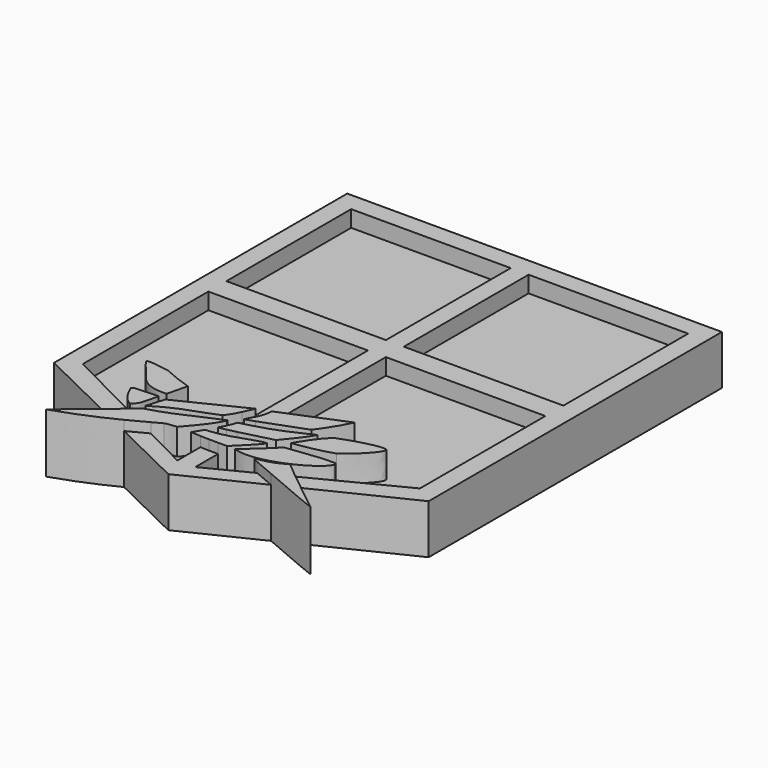
from build123d import *

# Parameters (mm, degrees)
F0_W     = 12.319
F0_H     = 12.0396
F1_DEPTH = 3.81
F2_DEPTH = 2.54
F3_DEPTH = 4.572


with BuildPart() as f1:
    # F0 (on Top) → F1 (new body)
    with BuildSketch(Plane.XY):
        with BuildLine():
            add(Edge.make_bspline(
                [(8.1169283033, 9.6667372386), (7.7310869335, 9.9844917644), (7.3500585552, 10.3050189604), (6.9759206749, 10.6293145423)],
                knots=[4.1486736792, 4.1486736792, 4.1486736792, 4.1486736792, 5.6526465741, 5.6526465741, 5.6526465741, 5.6526465741], degree=3))
            Line((8.1169283033, 9.6667372386), (15.5298291797, 13.2776712999))
            Line((15.5298291797, 13.2776712999), (15.5298291797, 41.5848446953))
            Line((15.5298291797, 41.5848446953), (1.0646498342, 41.5848446953))
            Line((1.0646498342, 41.5848446953), (1.0646498342, 12.9554838935))
            add(Edge.make_bspline(
                [(1.7564652336, 13.1265926454), (1.5415587862, 13.0704316479), (1.3119930128, 13.0135928981), (1.0646498342, 12.9554838935)],
                knots=[4.5163857109, 4.5163857109, 4.5163857109, 4.5163857109, 5.0662293891, 5.0662293891, 5.0662293891, 5.0662293891], degree=3))
            Line((1.7564652336, 13.1265926454), (1.7564652336, 13.7628387287))
            add(Edge.make_bspline(
                [(1.7564652336, 13.7628387287), (1.3629569624, 13.6206788601), (1.0978186837, 13.5313436813), (1.0713669471, 13.5402288288)],
                knots=[2.9660371258, 2.9660371258, 2.9660371258, 2.9660371258, 4.286931199, 4.286931199, 4.286931199, 4.286931199], degree=3))
            add(Edge.make_bspline(
                [(1.0713669471, 13.5402288288), (1.1603171006, 13.9552401379), (1.6143034445, 14.2256999388), (1.7457224894, 15.3957782313)],
                knots=[0, 0, 0, 0, 1.9742894881, 1.9742894881, 1.9742894881, 1.9742894881], degree=3))
            add(Edge.make_bspline(
                [(1.7457224894, 15.3957782313), (1.7493034041, 15.3972490496), (1.7528843189, 15.3987198679), (1.7564652336, 15.4001906862)],
                knots=[0, 0, 0, 0, 0.011613626, 0.011613626, 0.011613626, 0.011613626], degree=3))
            Line((1.7564652336, 15.4001906862), (1.7564652336, 26.3614689632))
            Line((1.7564652336, 26.3614689632), (14.0754652336, 26.3614689632))
            Line((14.0754652336, 26.3614689632), (14.0754652336, 14.2492791638))
            Line((14.0754652336, 14.2492791638), (6.9759206749, 10.6293145423))
        make_face()
        with Locations((7.9159652336, 34.1211672857)):
            Rectangle(F0_W, F0_H, mode=Mode.SUBTRACT)
        with BuildLine():
            add(Edge.make_bspline(
                [(0.3728344348, 11.0121595398), (0.6140600883, 11.0362693603), (0.8445226083, 11.0713390914), (1.0646498342, 11.1139504338)],
                knots=[0.2089195363, 0.2089195363, 0.2089195363, 0.2089195363, 0.7478230397, 0.7478230397, 0.7478230397, 0.7478230397], degree=3))
            Line((1.0646498342, 11.1139504338), (1.0646498342, 11.8238237711))
            add(Edge.make_bspline(
                [(0.4930809373, 11.7231532931), (0.5196312553, 11.7119038561), (0.7377386492, 11.752334562), (1.0646498342, 11.8238237711)],
                knots=[0, 0, 0, 0, 1.1073401154, 1.1073401154, 1.1073401154, 1.1073401154], degree=3))
            add(Edge.make_bspline(
                [(1.0397689184, 12.9496483132), (0.9350361652, 12.5276325271), (0.7418505265, 12.1863372624), (0.4930809373, 11.7231532931)],
                knots=[0, 0, 0, 0, 1.3428171071, 1.3428171071, 1.3428171071, 1.3428171071], degree=3))
            add(Edge.make_bspline(
                [(1.0646498342, 12.9554838935), (1.0563761261, 12.9535401288), (1.0480825264, 12.9515949428), (1.0397689184, 12.9496483132)],
                knots=[5.0662293891, 5.0662293891, 5.0662293891, 5.0662293891, 5.0846218353, 5.0846218353, 5.0846218353, 5.0846218353], degree=3))
            Line((1.0646498342, 12.9554838935), (1.0646498342, 41.5848446953))
            Line((1.0646498342, 41.5848446953), (-13.4005295113, 41.5848446953))
            Line((-13.4005295113, 41.5848446953), (-13.4005295113, 13.2776712999))
            Line((-13.4005295113, 13.2776712999), (-5.9566833199, 9.6516633162))
            add(Edge.make_bspline(
                [(-4.8405045296, 10.626195831), (-5.2003272722, 10.297998217), (-5.5743588224, 9.9738449613), (-5.9566833199, 9.6516633162)],
                knots=[0.2811679203, 0.2811679203, 0.2811679203, 0.2811679203, 1.7864987827, 1.7864987827, 1.7864987827, 1.7864987827], degree=3))
            Line((-4.8405045296, 10.626195831), (-5.4621621395, 10.9431708899))
            add(Edge.make_bspline(
                [(-5.4621621395, 10.9431708899), (-5.4938838732, 10.9084597866), (-5.5291695124, 10.8698442291), (-5.5685825646, 10.8262160793)],
                knots=[1.830827329, 1.830827329, 1.830827329, 1.830827329, 1.974727081, 1.974727081, 1.974727081, 1.974727081], degree=3))
            add(Edge.make_bspline(
                [(-5.5685825646, 10.8262160793), (-5.7882104325, 10.9416841946), (-5.9745791092, 11.1050595245), (-6.1314349809, 11.2844243306)],
                knots=[0, 0, 0, 0, 0.598960634, 0.598960634, 0.598960634, 0.598960634], degree=3))
            Line((-6.1314349809, 11.2844243306), (-11.9461655652, 14.2492791638))
            Line((-11.9461655652, 14.2492791638), (-11.9461655652, 26.3614689632))
            Line((-11.9461655652, 26.3614689632), (0.3728344348, 26.3614689632))
            Line((0.3728344348, 26.3614689632), (0.3728344348, 14.8609511311))
            add(Edge.make_bspline(
                [(0.3728344348, 14.8609511311), (0.4987414705, 14.9216025103), (0.6246650573, 14.9821541058), (0.7506007084, 15.0426004204)],
                knots=[5.1560141217, 5.1560141217, 5.1560141217, 5.1560141217, 5.575348818, 5.575348818, 5.575348818, 5.575348818], degree=3))
            add(Edge.make_bspline(
                [(0.7506007084, 15.0426004204), (0.6210977074, 14.7695425996), (0.5060288383, 14.4858343505), (0.3728344348, 14.2006814171)],
                knots=[0, 0, 0, 0, 0.9600736135, 0.9600736135, 0.9600736135, 0.9600736135], degree=3))
            Line((0.3728344348, 14.2006814171), (0.3728344348, 12.8185488284))
            Line((0.3728344348, 12.8185488284), (0.3728344348, 12.7684660256))
            Line((0.3728344348, 12.7684660256), (0.3728344348, 11.0121595398))
        make_face()
        with Locations((-5.7866655652, 34.1211672857)):
            Rectangle(F0_W, F0_H, mode=Mode.SUBTRACT)
        with BuildLine():
            Line((1.0646498342, 11.8238237711), (1.0646498342, 11.1139504338))
            add(Edge.make_bspline(
                [(1.0646498342, 11.1139504338), (1.307658721, 11.160991116), (1.5380719853, 11.2172227596), (1.7564652336, 11.2780464508)],
                knots=[0.7478230397, 0.7478230397, 0.7478230397, 0.7478230397, 1.3427441811, 1.3427441811, 1.3427441811, 1.3427441811], degree=3))
            Line((1.7564652336, 11.2780464508), (1.7564652336, 11.9824799775))
            add(Edge.make_bspline(
                [(1.0646498342, 11.8238237711), (1.2617495611, 11.8669257028), (1.4984002011, 11.9213176103), (1.7564652336, 11.9824799775)],
                knots=[1.1073401154, 1.1073401154, 1.1073401154, 1.1073401154, 1.7749723174, 1.7749723174, 1.7749723174, 1.7749723174], degree=3))
        make_face()
    extrude(amount=F1_DEPTH)



with BuildPart() as f1b:
    # F0 (on Top) → F1, piece 2 (new body)
    with BuildSketch(Plane.XY):
        with BuildLine():
            Line((-4.537572573, 8.9603934047), (1.0646498342, 6.2314677052))
            Line((1.0646498342, 6.2314677052), (1.0646498342, 10.1707370047))
            add(Edge.make_bspline(
                [(1.0646498342, 10.1707370047), (0.8358888752, 10.1743188217), (0.6056667383, 10.1805000668), (0.3728344348, 10.1902409627)],
                knots=[1.4016677408, 1.4016677408, 1.4016677408, 1.4016677408, 2.0930423017, 2.0930423017, 2.0930423017, 2.0930423017], degree=3))
            Line((0.3728344348, 10.1902409627), (0.3728344348, 7.9679826943))
            Line((0.3728344348, 7.9679826943), (-3.0811743862, 9.7291364741))
            add(Edge.make_bspline(
                [(-4.537572573, 8.9603934047), (-4.0146606579, 9.2250629054), (-3.5340269031, 9.4834843848), (-3.0811743862, 9.7291364741)],
                knots=[4.4223685997, 4.4223685997, 4.4223685997, 4.4223685997, 6.3210960992, 6.3210960992, 6.3210960992, 6.3210960992], degree=3))
        make_face()
        with BuildLine():
            Line((1.0646498342, 10.1707370047), (1.0646498342, 6.2314677052))
            Line((1.0646498342, 6.2314677052), (6.7696760466, 9.0104706643))
            add(Edge.make_bspline(
                [(5.1516435457, 9.6991395694), (5.6418565257, 9.4918764499), (6.1970144602, 9.2551350292), (6.7696760466, 9.0104706643)],
                knots=[0.2711685977, 0.2711685977, 0.2711685977, 0.2711685977, 1.7880814229, 1.7880814229, 1.7880814229, 1.7880814229], degree=3))
            Line((5.1516435457, 9.6991395694), (1.7564652336, 7.9679826943))
            Line((1.7564652336, 7.9679826943), (1.7564652336, 10.1668557981))
            add(Edge.make_bspline(
                [(1.7564652336, 10.1668557981), (1.5265631841, 10.1661479339), (1.2963560314, 10.1671090728), (1.0646498342, 10.1707370047)],
                knots=[0.7013919112, 0.7013919112, 0.7013919112, 0.7013919112, 1.4016677408, 1.4016677408, 1.4016677408, 1.4016677408], degree=3))
        make_face()
    extrude(amount=F1_DEPTH)


with BuildPart() as f1_1:
    add(f1.part)

    add(f1b.part)  # F2 merges F1b
    # F0 (on Top) → F2 (join)
    with BuildSketch(Plane.XY):
        with Locations((-5.7866655652, 34.1211672857)):
            Rectangle(F0_W, F0_H)
        with BuildLine():
            Line((-5.4621621395, 10.9431708899), (-4.8405045296, 10.626195831))
            add(Edge.make_bspline(
                [(-4.640405532, 10.8105363324), (-4.7065837909, 10.7489393974), (-4.7732963067, 10.6874970658), (-4.8405045296, 10.626195831)],
                knots=[0, 0, 0, 0, 0.2811679203, 0.2811679203, 0.2811679203, 0.2811679203], degree=3))
            add(Edge.make_bspline(
                [(0.3728344348, 12.8185488284), (-1.2982455541, 12.1492113297), (-2.5186894927, 11.3842468709), (-4.640405532, 10.8105363324)],
                knots=[0, 0, 0, 0, 5.400434163, 5.400434163, 5.400434163, 5.400434163], degree=3))
            Line((0.3728344348, 12.8185488284), (0.3728344348, 14.2006814171))
            add(Edge.make_bspline(
                [(0.3728344348, 14.2006814171), (0.2050268988, 13.8414259986), (0.0084492353, 13.4798774749), (-0.2820098598, 13.1344450638)],
                knots=[0.9600736135, 0.9600736135, 0.9600736135, 0.9600736135, 2.1696408575, 2.1696408575, 2.1696408575, 2.1696408575], degree=3))
            add(Edge.make_bspline(
                [(-0.2820098598, 13.1344450638), (-1.7461491322, 12.4868747468), (-2.8670993634, 12.3671321198), (-4.6744276769, 11.1917341128)],
                knots=[0, 0, 0, 0, 4.8028595773, 4.8028595773, 4.8028595773, 4.8028595773], degree=3))
            add(Edge.make_bspline(
                [(-4.6744276769, 11.1917341128), (-4.5585688204, 11.653997004), (-4.3997686231, 12.1223595133), (-4.2556639946, 12.588659067)],
                knots=[0, 0, 0, 0, 1.4583423293, 1.4583423293, 1.4583423293, 1.4583423293], degree=3))
            add(Edge.make_bspline(
                [(-4.2556639946, 12.588659067), (-2.7208938762, 13.3543629341), (-1.1752808532, 14.115199896), (0.3728344348, 14.8609511311)],
                knots=[0, 0, 0, 0, 5.1560141217, 5.1560141217, 5.1560141217, 5.1560141217], degree=3))
            Line((0.3728344348, 14.8609511311), (0.3728344348, 26.3614689632))
            Line((0.3728344348, 26.3614689632), (-11.9461655652, 26.3614689632))
            Line((-11.9461655652, 26.3614689632), (-11.9461655652, 14.2492791638))
            Line((-11.9461655652, 14.2492791638), (-6.1314349809, 11.2844243306))
            add(Edge.make_bspline(
                [(-6.1314349809, 11.2844243306), (-6.4952009614, 11.7003910001), (-6.7002391075, 12.2023533893), (-6.7932773381, 12.3922079802)],
                knots=[0.598960634, 0.598960634, 0.598960634, 0.598960634, 1.9880160769, 1.9880160769, 1.9880160769, 1.9880160769], degree=3))
            add(Edge.make_bspline(
                [(-6.7932773381, 12.3922079802), (-6.8484530784, 12.5224431977), (-6.699541118, 12.6090832055), (-6.6055506468, 12.5974332914)],
                knots=[0, 0, 0, 0, 0.2781343902, 0.2781343902, 0.2781343902, 0.2781343902], degree=3))
            add(Edge.make_bspline(
                [(-6.6055506468, 12.5974332914), (-5.3420835175, 12.6334168017), (-4.9102474004, 12.7053894103), (-4.8215379938, 12.6541852951)],
                knots=[0, 0, 0, 0, 1.784915106, 1.784915106, 1.784915106, 1.784915106], degree=3))
            add(Edge.make_bspline(
                [(-4.8215379938, 12.6541852951), (-5.2318753773, 11.194399065), (-5.0585685524, 11.3847980338), (-5.4621621395, 10.9431708899)],
                knots=[0, 0, 0, 0, 1.830827329, 1.830827329, 1.830827329, 1.830827329], degree=3))
        make_face()
        with BuildLine():
            add(Edge.make_bspline(
                [(-8.2688052207, 15.8066917211), (-8.2715703174, 15.6181789935), (-7.3390716376, 14.6207179253), (-6.8825283088, 14.0183903277)],
                knots=[0, 0, 0, 0, 2.2626943121, 2.2626943121, 2.2626943121, 2.2626943121], degree=3))
            add(Edge.make_bspline(
                [(-6.5143578686, 15.6538486481), (-7.3579349555, 15.8212762326), (-8.1564355642, 15.892110765), (-8.2688052207, 15.8066917211)],
                knots=[0, 0, 0, 0, 1.7610924213, 1.7610924213, 1.7610924213, 1.7610924213], degree=3))
            add(Edge.make_bspline(
                [(-4.2778113857, 14.7888604552), (-5.0692479126, 15.0221036747), (-5.8130128309, 15.3505196795), (-6.5143578686, 15.6538486481)],
                knots=[0, 0, 0, 0, 2.3979876447, 2.3979876447, 2.3979876447, 2.3979876447], degree=3))
            add(Edge.make_bspline(
                [(-4.6544563957, 13.2268099114), (-4.528908059, 13.747493426), (-4.4033597223, 14.2681769406), (-4.2778113857, 14.7888604552)],
                knots=[0, 0, 0, 0, 1.6068177758, 1.6068177758, 1.6068177758, 1.6068177758], degree=3))
            add(Edge.make_bspline(
                [(-6.8825283088, 14.0183903277), (-6.7798104137, 13.9257926494), (-6.274308078, 13.095093891), (-4.6544563957, 13.2268099114)],
                knots=[0, 0, 0, 0, 2.3645092526, 2.3645092526, 2.3645092526, 2.3645092526], degree=3))
        make_face(mode=Mode.SUBTRACT)
        with BuildLine():
            add(Edge.make_bspline(
                [(2.4475520477, 10.1730031893), (2.21669608, 10.1699481103), (1.986733695, 10.1675647905), (1.7564652336, 10.1668557981)],
                knots=[0, 0, 0, 0, 0.7013919112, 0.7013919112, 0.7013919112, 0.7013919112], degree=3))
            Line((1.7564652336, 10.1668557981), (1.7564652336, 7.9679826943))
            Line((1.7564652336, 7.9679826943), (5.1516435457, 9.6991395694))
            add(Edge.make_bspline(
                [(4.8952442594, 9.8073435947), (4.9784546062, 9.7722996979), (5.0640113732, 9.7361906435), (5.1516435457, 9.6991395694)],
                knots=[0, 0, 0, 0, 0.2711685977, 0.2711685977, 0.2711685977, 0.2711685977], degree=3))
            add(Edge.make_bspline(
                [(4.7524725087, 9.9347587675), (4.7750165686, 9.874840267), (4.8336824402, 9.8363403231), (4.8952442594, 9.8073435947)],
                knots=[0, 0, 0, 0, 0.1913593453, 0.1913593453, 0.1913593453, 0.1913593453], degree=3))
            add(Edge.make_bspline(
                [(6.9230310619, 10.6752235442), (6.2981424853, 10.3564653546), (5.9726307495, 10.117750173), (4.7524725087, 9.9347587675)],
                knots=[0, 0, 0, 0, 2.2933845117, 2.2933845117, 2.2933845117, 2.2933845117], degree=3))
            add(Edge.make_bspline(
                [(6.9759206749, 10.6293145423), (6.9582754047, 10.6446091261), (6.9406454611, 10.659912092), (6.9230310619, 10.6752235442)],
                knots=[5.6526465741, 5.6526465741, 5.6526465741, 5.6526465741, 5.7235776652, 5.7235776652, 5.7235776652, 5.7235776652], degree=3))
            Line((6.9759206749, 10.6293145423), (14.0754652336, 14.2492791638))
            Line((14.0754652336, 14.2492791638), (14.0754652336, 26.3614689632))
            Line((14.0754652336, 26.3614689632), (1.7564652336, 26.3614689632))
            Line((1.7564652336, 26.3614689632), (1.7564652336, 15.4001906862))
            add(Edge.make_bspline(
                [(1.7564652336, 15.4001906862), (3.3462487991, 16.0531754527), (4.9360323647, 16.7061602192), (6.5258159302, 17.3591449857)],
                knots=[0.011613626, 0.011613626, 0.011613626, 0.011613626, 5.1676012148, 5.1676012148, 5.1676012148, 5.1676012148], degree=3))
            add(Edge.make_bspline(
                [(6.5258159302, 17.3591449857), (6.173139438, 16.5417306125), (5.6213485077, 15.7620254904), (5.1000835374, 15.0055689737)],
                knots=[0, 0, 0, 0, 2.7517327087, 2.7517327087, 2.7517327087, 2.7517327087], degree=3))
            add(Edge.make_bspline(
                [(5.1000835374, 15.0055689737), (4.170955573, 14.6676230111), (2.6400789655, 14.0820554293), (1.7564652336, 13.7628387287)],
                knots=[0, 0, 0, 0, 2.9660371258, 2.9660371258, 2.9660371258, 2.9660371258], degree=3))
            Line((1.7564652336, 13.7628387287), (1.7564652336, 13.1265926454))
            add(Edge.make_bspline(
                [(5.8130039833, 14.7016774863), (4.2978762065, 14.0034721299), (3.521694964, 13.5878959877), (1.7564652336, 13.1265926454)],
                knots=[0, 0, 0, 0, 4.5163857109, 4.5163857109, 4.5163857109, 4.5163857109], degree=3))
            add(Edge.make_bspline(
                [(4.2615598068, 12.6195801422), (4.8098652624, 13.2833756506), (5.3336666897, 13.8791501522), (5.8130039833, 14.7016774863)],
                knots=[0, 0, 0, 0, 2.5965570249, 2.5965570249, 2.5965570249, 2.5965570249], degree=3))
            add(Edge.make_bspline(
                [(1.7564652336, 11.9824799775), (2.5676758346, 12.1747398905), (3.5904859521, 12.4338999506), (4.2615598068, 12.6195801422)],
                knots=[1.7749723174, 1.7749723174, 1.7749723174, 1.7749723174, 3.8736306078, 3.8736306078, 3.8736306078, 3.8736306078], degree=3))
            Line((1.7564652336, 11.9824799775), (1.7564652336, 11.2780464508))
            add(Edge.make_bspline(
                [(1.7564652336, 11.2780464508), (2.7732785062, 11.5612344016), (3.5295310008, 11.943965273), (4.0833167732, 11.9620859623)],
                knots=[1.3427441811, 1.3427441811, 1.3427441811, 1.3427441811, 4.1126270296, 4.1126270296, 4.1126270296, 4.1126270296], degree=3))
            add(Edge.make_bspline(
                [(4.0833167732, 11.9620859623), (4.1368496604, 11.8192695081), (3.0505978502, 10.7668982819), (2.4475520477, 10.1730031893)],
                knots=[0, 0, 0, 0, 2.4241582881, 2.4241582881, 2.4241582881, 2.4241582881], degree=3))
        make_face()
        with BuildLine():
            add(Edge.make_bspline(
                [(5.2580512129, 12.1715525165), (4.5750867575, 11.4770280197), (3.8347556204, 10.812910027), (3.0810336996, 10.1520127944)],
                knots=[0, 0, 0, 0, 2.9695026422, 2.9695026422, 2.9695026422, 2.9695026422], degree=3))
            add(Edge.make_bspline(
                [(8.9735882357, 12.5061022118), (7.7045755461, 12.5705245882), (6.4924275503, 12.27212511), (5.2580512129, 12.1715525165)],
                knots=[0, 0, 0, 0, 3.7305681694, 3.7305681694, 3.7305681694, 3.7305681694], degree=3))
            add(Edge.make_bspline(
                [(9.0082781389, 12.2779496014), (9.0278545395, 12.3873557895), (9.0301306918, 12.4237826094), (8.9735882357, 12.5061022118)],
                knots=[0, 0, 0, 0, 0.2307747885, 0.2307747885, 0.2307747885, 0.2307747885], degree=3))
            add(Edge.make_bspline(
                [(3.0810336996, 10.1520127944), (5.0206673332, 9.4773862511), (8.621907793, 11.3026723266), (9.0082781389, 12.2779496014)],
                knots=[0, 0, 0, 0, 6.2969702199, 6.2969702199, 6.2969702199, 6.2969702199], degree=3))
        make_face(mode=Mode.SUBTRACT)
        with BuildLine():
            add(Edge.make_bspline(
                [(5.2117924206, 12.8667727113), (6.1420290731, 13.0153475329), (7.2643333115, 13.1880100816), (8.2238372415, 13.5305784643)],
                knots=[0, 0, 0, 0, 3.0843236019, 3.0843236019, 3.0843236019, 3.0843236019], degree=3))
            add(Edge.make_bspline(
                [(5.2117924206, 12.8667727113), (5.6534204632, 13.6239398271), (6.1309374869, 14.3489101902), (6.7917513661, 15.014545992)],
                knots=[0, 0, 0, 0, 2.6663083721, 2.6663083721, 2.6663083721, 2.6663083721], degree=3))
            add(Edge.make_bspline(
                [(6.7917513661, 15.014545992), (8.3780921996, 15.6300216913), (9.7825620323, 15.9676801413), (10.2291237563, 15.8130526543)],
                knots=[0, 0, 0, 0, 3.5289009392, 3.5289009392, 3.5289009392, 3.5289009392], degree=3))
            add(Edge.make_bspline(
                [(8.2238372415, 13.5305784643), (8.4473183379, 13.6159388348), (10.5278836563, 15.3886405751), (10.2291237563, 15.8130526543)],
                knots=[0, 0, 0, 0, 3.0382334397, 3.0382334397, 3.0382334397, 3.0382334397], degree=3))
        make_face(mode=Mode.SUBTRACT)
        with Locations((7.9159652336, 34.1211672857)):
            Rectangle(F0_W, F0_H)
        with BuildLine():
            Line((0.3728344348, 7.9679826943), (0.3728344348, 10.1902409627))
            add(Edge.make_bspline(
                [(0.3728344348, 10.1902409627), (0.1265041454, 10.2005465674), (-0.1227477214, 10.2148365135), (-0.3762817942, 10.2342478931)],
                knots=[2.0930423017, 2.0930423017, 2.0930423017, 2.0930423017, 2.8244979164, 2.8244979164, 2.8244979164, 2.8244979164], degree=3))
            add(Edge.make_bspline(
                [(-0.3762817942, 10.2342478931), (-0.2217195167, 10.4859185716), (-0.0671572391, 10.73758925), (0.0874050384, 10.9892599285)],
                knots=[0, 0, 0, 0, 0.8860297129, 0.8860297129, 0.8860297129, 0.8860297129], degree=3))
            add(Edge.make_bspline(
                [(0.0874050384, 10.9892599285), (0.1841824028, 10.9951131675), (0.2793172256, 11.0028127598), (0.3728344348, 11.0121595398)],
                knots=[0, 0, 0, 0, 0.2089195363, 0.2089195363, 0.2089195363, 0.2089195363], degree=3))
            Line((0.3728344348, 11.0121595398), (0.3728344348, 12.7684660256))
            add(Edge.make_bspline(
                [(0.3728344348, 12.7684660256), (0, 11.9081633165), (-0.8753027068, 10.9360180795), (-1.4679196756, 10.2480528876)],
                knots=[0, 0, 0, 0, 3.1210347773, 3.1210347773, 3.1210347773, 3.1210347773], degree=3))
            add(Edge.make_bspline(
                [(-2.3762476631, 10.1113012061), (-2.0986832678, 10.2179581299), (-1.7706956714, 10.2024689938), (-1.4679196756, 10.2480528876)],
                knots=[0, 0, 0, 0, 0.9185645079, 0.9185645079, 0.9185645079, 0.9185645079], degree=3))
            add(Edge.make_bspline(
                [(-3.0811743862, 9.7291364741), (-2.8389924153, 9.8605092828), (-2.6047559519, 9.9882300122), (-2.3762476631, 10.1113012061)],
                knots=[6.3210960992, 6.3210960992, 6.3210960992, 6.3210960992, 7.3365206596, 7.3365206596, 7.3365206596, 7.3365206596], degree=3))
            Line((-3.0811743862, 9.7291364741), (0.3728344348, 7.9679826943))
        make_face()
    extrude(amount=F2_DEPTH)

    # F0 (on Top) → F3 (join)
    with BuildSketch(Plane.XY):
        with BuildLine():
            Line((-4.8405045296, 10.626195831), (-3.0811743862, 9.7291364741))
            add(Edge.make_bspline(
                [(-3.0811743862, 9.7291364741), (-2.8389924153, 9.8605092828), (-2.6047559519, 9.9882300122), (-2.3762476631, 10.1113012061)],
                knots=[6.3210960992, 6.3210960992, 6.3210960992, 6.3210960992, 7.3365206596, 7.3365206596, 7.3365206596, 7.3365206596], degree=3))
            add(Edge.make_bspline(
                [(-2.3762476631, 10.1113012061), (-2.0986832678, 10.2179581299), (-1.7706956714, 10.2024689938), (-1.4679196756, 10.2480528876)],
                knots=[0, 0, 0, 0, 0.9185645079, 0.9185645079, 0.9185645079, 0.9185645079], degree=3))
            add(Edge.make_bspline(
                [(0.3728344348, 12.7684660256), (0, 11.9081633165), (-0.8753027068, 10.9360180795), (-1.4679196756, 10.2480528876)],
                knots=[0, 0, 0, 0, 3.1210347773, 3.1210347773, 3.1210347773, 3.1210347773], degree=3))
            Line((0.3728344348, 12.7684660256), (0.3728344348, 12.8185488284))
            add(Edge.make_bspline(
                [(0.3728344348, 12.8185488284), (-1.2982455541, 12.1492113297), (-2.5186894927, 11.3842468709), (-4.640405532, 10.8105363324)],
                knots=[0, 0, 0, 0, 5.400434163, 5.400434163, 5.400434163, 5.400434163], degree=3))
            add(Edge.make_bspline(
                [(-4.640405532, 10.8105363324), (-4.7065837909, 10.7489393974), (-4.7732963067, 10.6874970658), (-4.8405045296, 10.626195831)],
                knots=[0, 0, 0, 0, 0.2811679203, 0.2811679203, 0.2811679203, 0.2811679203], degree=3))
        make_face()
        with BuildLine():
            Line((-5.9566833199, 9.6516633162), (-4.537572573, 8.9603934047))
            add(Edge.make_bspline(
                [(-4.537572573, 8.9603934047), (-4.0146606579, 9.2250629054), (-3.5340269031, 9.4834843848), (-3.0811743862, 9.7291364741)],
                knots=[4.4223685997, 4.4223685997, 4.4223685997, 4.4223685997, 6.3210960992, 6.3210960992, 6.3210960992, 6.3210960992], degree=3))
            Line((-3.0811743862, 9.7291364741), (-4.8405045296, 10.626195831))
            add(Edge.make_bspline(
                [(-4.8405045296, 10.626195831), (-5.2003272722, 10.297998217), (-5.5743588224, 9.9738449613), (-5.9566833199, 9.6516633162)],
                knots=[0.2811679203, 0.2811679203, 0.2811679203, 0.2811679203, 1.7864987827, 1.7864987827, 1.7864987827, 1.7864987827], degree=3))
        make_face()
        with BuildLine():
            add(Edge.make_bspline(
                [(-9.0625723824, 7.091765292), (-7.2027752193, 7.6936037888), (-5.7554983862, 8.3439457632), (-4.537572573, 8.9603934047)],
                knots=[0, 0, 0, 0, 4.4223685997, 4.4223685997, 4.4223685997, 4.4223685997], degree=3))
            Line((-4.537572573, 8.9603934047), (-5.9566833199, 9.6516633162))
            add(Edge.make_bspline(
                [(-5.9566833199, 9.6516633162), (-6.9704360488, 8.7973824002), (-8.0424941706, 7.9569633272), (-9.0625723824, 7.091765292)],
                knots=[1.7864987827, 1.7864987827, 1.7864987827, 1.7864987827, 5.7779596489, 5.7779596489, 5.7779596489, 5.7779596489], degree=3))
        make_face()
        with BuildLine():
            add(Edge.make_bspline(
                [(5.1516435457, 9.6991395694), (5.6418565257, 9.4918764499), (6.1970144602, 9.2551350292), (6.7696760466, 9.0104706643)],
                knots=[0.2711685977, 0.2711685977, 0.2711685977, 0.2711685977, 1.7880814229, 1.7880814229, 1.7880814229, 1.7880814229], degree=3))
            Line((6.7696760466, 9.0104706643), (8.1169283033, 9.6667372386))
            add(Edge.make_bspline(
                [(8.1169283033, 9.6667372386), (7.7310869335, 9.9844917644), (7.3500585552, 10.3050189604), (6.9759206749, 10.6293145423)],
                knots=[4.1486736792, 4.1486736792, 4.1486736792, 4.1486736792, 5.6526465741, 5.6526465741, 5.6526465741, 5.6526465741], degree=3))
            Line((6.9759206749, 10.6293145423), (5.1516435457, 9.6991395694))
        make_face()
        with BuildLine():
            Line((8.1169283033, 9.6667372386), (6.7696760466, 9.0104706643))
            add(Edge.make_bspline(
                [(6.7696760466, 9.0104706643), (8.7491982997, 8.1647380949), (10.9378683716, 7.2243357664), (11.3761937246, 7.0795756765)],
                knots=[1.7880814229, 1.7880814229, 1.7880814229, 1.7880814229, 7.0316017938, 7.0316017938, 7.0316017938, 7.0316017938], degree=3))
            add(Edge.make_bspline(
                [(11.3761937246, 7.0795756765), (10.2822198745, 7.9347983205), (9.1812626013, 8.7902188902), (8.1169283033, 9.6667372386)],
                knots=[0, 0, 0, 0, 4.1486736792, 4.1486736792, 4.1486736792, 4.1486736792], degree=3))
        make_face()
        with BuildLine():
            add(Edge.make_bspline(
                [(4.8952442594, 9.8073435947), (4.9784546062, 9.7722996979), (5.0640113732, 9.7361906435), (5.1516435457, 9.6991395694)],
                knots=[0, 0, 0, 0, 0.2711685977, 0.2711685977, 0.2711685977, 0.2711685977], degree=3))
            Line((5.1516435457, 9.6991395694), (6.9759206749, 10.6293145423))
            add(Edge.make_bspline(
                [(6.9759206749, 10.6293145423), (6.9582754047, 10.6446091261), (6.9406454611, 10.659912092), (6.9230310619, 10.6752235442)],
                knots=[5.6526465741, 5.6526465741, 5.6526465741, 5.6526465741, 5.7235776652, 5.7235776652, 5.7235776652, 5.7235776652], degree=3))
            add(Edge.make_bspline(
                [(6.9230310619, 10.6752235442), (6.2981424853, 10.3564653546), (5.9726307495, 10.117750173), (4.7524725087, 9.9347587675)],
                knots=[0, 0, 0, 0, 2.2933845117, 2.2933845117, 2.2933845117, 2.2933845117], degree=3))
            add(Edge.make_bspline(
                [(4.7524725087, 9.9347587675), (4.7750165686, 9.874840267), (4.8336824402, 9.8363403231), (4.8952442594, 9.8073435947)],
                knots=[0, 0, 0, 0, 0.1913593453, 0.1913593453, 0.1913593453, 0.1913593453], degree=3))
        make_face()
        with BuildLine():
            Line((1.7564652336, 11.2780464508), (1.7564652336, 10.1668557981))
            add(Edge.make_bspline(
                [(2.4475520477, 10.1730031893), (2.21669608, 10.1699481103), (1.986733695, 10.1675647905), (1.7564652336, 10.1668557981)],
                knots=[0, 0, 0, 0, 0.7013919112, 0.7013919112, 0.7013919112, 0.7013919112], degree=3))
            add(Edge.make_bspline(
                [(4.0833167732, 11.9620859623), (4.1368496604, 11.8192695081), (3.0505978502, 10.7668982819), (2.4475520477, 10.1730031893)],
                knots=[0, 0, 0, 0, 2.4241582881, 2.4241582881, 2.4241582881, 2.4241582881], degree=3))
            add(Edge.make_bspline(
                [(1.7564652336, 11.2780464508), (2.7732785062, 11.5612344016), (3.5295310008, 11.943965273), (4.0833167732, 11.9620859623)],
                knots=[1.3427441811, 1.3427441811, 1.3427441811, 1.3427441811, 4.1126270296, 4.1126270296, 4.1126270296, 4.1126270296], degree=3))
        make_face()
        with BuildLine():
            Line((1.0646498342, 11.1139504338), (1.0646498342, 10.1707370047))
            add(Edge.make_bspline(
                [(1.7564652336, 10.1668557981), (1.5265631841, 10.1661479339), (1.2963560314, 10.1671090728), (1.0646498342, 10.1707370047)],
                knots=[0.7013919112, 0.7013919112, 0.7013919112, 0.7013919112, 1.4016677408, 1.4016677408, 1.4016677408, 1.4016677408], degree=3))
            Line((1.7564652336, 10.1668557981), (1.7564652336, 11.2780464508))
            add(Edge.make_bspline(
                [(1.0646498342, 11.1139504338), (1.307658721, 11.160991116), (1.5380719853, 11.2172227596), (1.7564652336, 11.2780464508)],
                knots=[0.7478230397, 0.7478230397, 0.7478230397, 0.7478230397, 1.3427441811, 1.3427441811, 1.3427441811, 1.3427441811], degree=3))
        make_face()
        with BuildLine():
            add(Edge.make_bspline(
                [(1.0646498342, 10.1707370047), (0.8358888752, 10.1743188217), (0.6056667383, 10.1805000668), (0.3728344348, 10.1902409627)],
                knots=[1.4016677408, 1.4016677408, 1.4016677408, 1.4016677408, 2.0930423017, 2.0930423017, 2.0930423017, 2.0930423017], degree=3))
            Line((1.0646498342, 10.1707370047), (1.0646498342, 11.1139504338))
            add(Edge.make_bspline(
                [(0.3728344348, 11.0121595398), (0.6140600883, 11.0362693603), (0.8445226083, 11.0713390914), (1.0646498342, 11.1139504338)],
                knots=[0.2089195363, 0.2089195363, 0.2089195363, 0.2089195363, 0.7478230397, 0.7478230397, 0.7478230397, 0.7478230397], degree=3))
            Line((0.3728344348, 11.0121595398), (0.3728344348, 10.1902409627))
        make_face()
        with BuildLine():
            add(Edge.make_bspline(
                [(0.3728344348, 10.1902409627), (0.1265041454, 10.2005465674), (-0.1227477214, 10.2148365135), (-0.3762817942, 10.2342478931)],
                knots=[2.0930423017, 2.0930423017, 2.0930423017, 2.0930423017, 2.8244979164, 2.8244979164, 2.8244979164, 2.8244979164], degree=3))
            Line((0.3728344348, 10.1902409627), (0.3728344348, 11.0121595398))
            add(Edge.make_bspline(
                [(0.0874050384, 10.9892599285), (0.1841824028, 10.9951131675), (0.2793172256, 11.0028127598), (0.3728344348, 11.0121595398)],
                knots=[0, 0, 0, 0, 0.2089195363, 0.2089195363, 0.2089195363, 0.2089195363], degree=3))
            add(Edge.make_bspline(
                [(-0.3762817942, 10.2342478931), (-0.2217195167, 10.4859185716), (-0.0671572391, 10.73758925), (0.0874050384, 10.9892599285)],
                knots=[0, 0, 0, 0, 0.8860297129, 0.8860297129, 0.8860297129, 0.8860297129], degree=3))
        make_face()
        with BuildLine():
            add(Edge.make_bspline(
                [(8.9735882357, 12.5061022118), (7.7045755461, 12.5705245882), (6.4924275503, 12.27212511), (5.2580512129, 12.1715525165)],
                knots=[0, 0, 0, 0, 3.7305681694, 3.7305681694, 3.7305681694, 3.7305681694], degree=3))
            add(Edge.make_bspline(
                [(5.2580512129, 12.1715525165), (4.5750867575, 11.4770280197), (3.8347556204, 10.812910027), (3.0810336996, 10.1520127944)],
                knots=[0, 0, 0, 0, 2.9695026422, 2.9695026422, 2.9695026422, 2.9695026422], degree=3))
            add(Edge.make_bspline(
                [(3.0810336996, 10.1520127944), (5.0206673332, 9.4773862511), (8.621907793, 11.3026723266), (9.0082781389, 12.2779496014)],
                knots=[0, 0, 0, 0, 6.2969702199, 6.2969702199, 6.2969702199, 6.2969702199], degree=3))
            add(Edge.make_bspline(
                [(9.0082781389, 12.2779496014), (9.0278545395, 12.3873557895), (9.0301306918, 12.4237826094), (8.9735882357, 12.5061022118)],
                knots=[0, 0, 0, 0, 0.2307747885, 0.2307747885, 0.2307747885, 0.2307747885], degree=3))
        make_face()
        with BuildLine():
            Line((1.7564652336, 13.1265926454), (1.7564652336, 11.9824799775))
            add(Edge.make_bspline(
                [(1.7564652336, 11.9824799775), (2.5676758346, 12.1747398905), (3.5904859521, 12.4338999506), (4.2615598068, 12.6195801422)],
                knots=[1.7749723174, 1.7749723174, 1.7749723174, 1.7749723174, 3.8736306078, 3.8736306078, 3.8736306078, 3.8736306078], degree=3))
            add(Edge.make_bspline(
                [(4.2615598068, 12.6195801422), (4.8098652624, 13.2833756506), (5.3336666897, 13.8791501522), (5.8130039833, 14.7016774863)],
                knots=[0, 0, 0, 0, 2.5965570249, 2.5965570249, 2.5965570249, 2.5965570249], degree=3))
            add(Edge.make_bspline(
                [(5.8130039833, 14.7016774863), (4.2978762065, 14.0034721299), (3.521694964, 13.5878959877), (1.7564652336, 13.1265926454)],
                knots=[0, 0, 0, 0, 4.5163857109, 4.5163857109, 4.5163857109, 4.5163857109], degree=3))
        make_face()
        with BuildLine():
            Line((1.0646498342, 12.9554838935), (1.0646498342, 11.8238237711))
            add(Edge.make_bspline(
                [(1.0646498342, 11.8238237711), (1.2617495611, 11.8669257028), (1.4984002011, 11.9213176103), (1.7564652336, 11.9824799775)],
                knots=[1.1073401154, 1.1073401154, 1.1073401154, 1.1073401154, 1.7749723174, 1.7749723174, 1.7749723174, 1.7749723174], degree=3))
            Line((1.7564652336, 11.9824799775), (1.7564652336, 13.1265926454))
            add(Edge.make_bspline(
                [(1.7564652336, 13.1265926454), (1.5415587862, 13.0704316479), (1.3119930128, 13.0135928981), (1.0646498342, 12.9554838935)],
                knots=[4.5163857109, 4.5163857109, 4.5163857109, 4.5163857109, 5.0662293891, 5.0662293891, 5.0662293891, 5.0662293891], degree=3))
        make_face()
        with BuildLine():
            add(Edge.make_bspline(
                [(0.4930809373, 11.7231532931), (0.5196312553, 11.7119038561), (0.7377386492, 11.752334562), (1.0646498342, 11.8238237711)],
                knots=[0, 0, 0, 0, 1.1073401154, 1.1073401154, 1.1073401154, 1.1073401154], degree=3))
            Line((1.0646498342, 11.8238237711), (1.0646498342, 12.9554838935))
            add(Edge.make_bspline(
                [(1.0646498342, 12.9554838935), (1.0563761261, 12.9535401288), (1.0480825264, 12.9515949428), (1.0397689184, 12.9496483132)],
                knots=[5.0662293891, 5.0662293891, 5.0662293891, 5.0662293891, 5.0846218353, 5.0846218353, 5.0846218353, 5.0846218353], degree=3))
            add(Edge.make_bspline(
                [(1.0397689184, 12.9496483132), (0.9350361652, 12.5276325271), (0.7418505265, 12.1863372624), (0.4930809373, 11.7231532931)],
                knots=[0, 0, 0, 0, 1.3428171071, 1.3428171071, 1.3428171071, 1.3428171071], degree=3))
        make_face()
        with BuildLine():
            Line((-6.1314349809, 11.2844243306), (-5.4621621395, 10.9431708899))
            add(Edge.make_bspline(
                [(-4.8215379938, 12.6541852951), (-5.2318753773, 11.194399065), (-5.0585685524, 11.3847980338), (-5.4621621395, 10.9431708899)],
                knots=[0, 0, 0, 0, 1.830827329, 1.830827329, 1.830827329, 1.830827329], degree=3))
            add(Edge.make_bspline(
                [(-6.6055506468, 12.5974332914), (-5.3420835175, 12.6334168017), (-4.9102474004, 12.7053894103), (-4.8215379938, 12.6541852951)],
                knots=[0, 0, 0, 0, 1.784915106, 1.784915106, 1.784915106, 1.784915106], degree=3))
            add(Edge.make_bspline(
                [(-6.7932773381, 12.3922079802), (-6.8484530784, 12.5224431977), (-6.699541118, 12.6090832055), (-6.6055506468, 12.5974332914)],
                knots=[0, 0, 0, 0, 0.2781343902, 0.2781343902, 0.2781343902, 0.2781343902], degree=3))
            add(Edge.make_bspline(
                [(-6.1314349809, 11.2844243306), (-6.4952009614, 11.7003910001), (-6.7002391075, 12.2023533893), (-6.7932773381, 12.3922079802)],
                knots=[0.598960634, 0.598960634, 0.598960634, 0.598960634, 1.9880160769, 1.9880160769, 1.9880160769, 1.9880160769], degree=3))
        make_face()
        with BuildLine():
            add(Edge.make_bspline(
                [(-5.4621621395, 10.9431708899), (-5.4938838732, 10.9084597866), (-5.5291695124, 10.8698442291), (-5.5685825646, 10.8262160793)],
                knots=[1.830827329, 1.830827329, 1.830827329, 1.830827329, 1.974727081, 1.974727081, 1.974727081, 1.974727081], degree=3))
            Line((-5.4621621395, 10.9431708899), (-6.1314349809, 11.2844243306))
            add(Edge.make_bspline(
                [(-5.5685825646, 10.8262160793), (-5.7882104325, 10.9416841946), (-5.9745791092, 11.1050595245), (-6.1314349809, 11.2844243306)],
                knots=[0, 0, 0, 0, 0.598960634, 0.598960634, 0.598960634, 0.598960634], degree=3))
        make_face()
        with BuildLine():
            add(Edge.make_bspline(
                [(-6.5143578686, 15.6538486481), (-7.3579349555, 15.8212762326), (-8.1564355642, 15.892110765), (-8.2688052207, 15.8066917211)],
                knots=[0, 0, 0, 0, 1.7610924213, 1.7610924213, 1.7610924213, 1.7610924213], degree=3))
            add(Edge.make_bspline(
                [(-8.2688052207, 15.8066917211), (-8.2715703174, 15.6181789935), (-7.3390716376, 14.6207179253), (-6.8825283088, 14.0183903277)],
                knots=[0, 0, 0, 0, 2.2626943121, 2.2626943121, 2.2626943121, 2.2626943121], degree=3))
            add(Edge.make_bspline(
                [(-6.8825283088, 14.0183903277), (-6.7798104137, 13.9257926494), (-6.274308078, 13.095093891), (-4.6544563957, 13.2268099114)],
                knots=[0, 0, 0, 0, 2.3645092526, 2.3645092526, 2.3645092526, 2.3645092526], degree=3))
            add(Edge.make_bspline(
                [(-4.6544563957, 13.2268099114), (-4.528908059, 13.747493426), (-4.4033597223, 14.2681769406), (-4.2778113857, 14.7888604552)],
                knots=[0, 0, 0, 0, 1.6068177758, 1.6068177758, 1.6068177758, 1.6068177758], degree=3))
            add(Edge.make_bspline(
                [(-4.2778113857, 14.7888604552), (-5.0692479126, 15.0221036747), (-5.8130128309, 15.3505196795), (-6.5143578686, 15.6538486481)],
                knots=[0, 0, 0, 0, 2.3979876447, 2.3979876447, 2.3979876447, 2.3979876447], degree=3))
        make_face()
        with BuildLine():
            Line((0.3728344348, 14.8609511311), (0.3728344348, 14.2006814171))
            add(Edge.make_bspline(
                [(0.7506007084, 15.0426004204), (0.6210977074, 14.7695425996), (0.5060288383, 14.4858343505), (0.3728344348, 14.2006814171)],
                knots=[0, 0, 0, 0, 0.9600736135, 0.9600736135, 0.9600736135, 0.9600736135], degree=3))
            add(Edge.make_bspline(
                [(0.3728344348, 14.8609511311), (0.4987414705, 14.9216025103), (0.6246650573, 14.9821541058), (0.7506007084, 15.0426004204)],
                knots=[5.1560141217, 5.1560141217, 5.1560141217, 5.1560141217, 5.575348818, 5.575348818, 5.575348818, 5.575348818], degree=3))
        make_face()
        with BuildLine():
            Line((1.7564652336, 15.4001906862), (1.7564652336, 13.7628387287))
            add(Edge.make_bspline(
                [(5.1000835374, 15.0055689737), (4.170955573, 14.6676230111), (2.6400789655, 14.0820554293), (1.7564652336, 13.7628387287)],
                knots=[0, 0, 0, 0, 2.9660371258, 2.9660371258, 2.9660371258, 2.9660371258], degree=3))
            add(Edge.make_bspline(
                [(6.5258159302, 17.3591449857), (6.173139438, 16.5417306125), (5.6213485077, 15.7620254904), (5.1000835374, 15.0055689737)],
                knots=[0, 0, 0, 0, 2.7517327087, 2.7517327087, 2.7517327087, 2.7517327087], degree=3))
            add(Edge.make_bspline(
                [(1.7564652336, 15.4001906862), (3.3462487991, 16.0531754527), (4.9360323647, 16.7061602192), (6.5258159302, 17.3591449857)],
                knots=[0.011613626, 0.011613626, 0.011613626, 0.011613626, 5.1676012148, 5.1676012148, 5.1676012148, 5.1676012148], degree=3))
        make_face()
        with BuildLine():
            add(Edge.make_bspline(
                [(0.3728344348, 14.2006814171), (0.2050268988, 13.8414259986), (0.0084492353, 13.4798774749), (-0.2820098598, 13.1344450638)],
                knots=[0.9600736135, 0.9600736135, 0.9600736135, 0.9600736135, 2.1696408575, 2.1696408575, 2.1696408575, 2.1696408575], degree=3))
            Line((0.3728344348, 14.2006814171), (0.3728344348, 14.8609511311))
            add(Edge.make_bspline(
                [(-4.2556639946, 12.588659067), (-2.7208938762, 13.3543629341), (-1.1752808532, 14.115199896), (0.3728344348, 14.8609511311)],
                knots=[0, 0, 0, 0, 5.1560141217, 5.1560141217, 5.1560141217, 5.1560141217], degree=3))
            add(Edge.make_bspline(
                [(-4.6744276769, 11.1917341128), (-4.5585688204, 11.653997004), (-4.3997686231, 12.1223595133), (-4.2556639946, 12.588659067)],
                knots=[0, 0, 0, 0, 1.4583423293, 1.4583423293, 1.4583423293, 1.4583423293], degree=3))
            add(Edge.make_bspline(
                [(-0.2820098598, 13.1344450638), (-1.7461491322, 12.4868747468), (-2.8670993634, 12.3671321198), (-4.6744276769, 11.1917341128)],
                knots=[0, 0, 0, 0, 4.8028595773, 4.8028595773, 4.8028595773, 4.8028595773], degree=3))
        make_face()
        with BuildLine():
            add(Edge.make_bspline(
                [(1.7564652336, 13.7628387287), (1.3629569624, 13.6206788601), (1.0978186837, 13.5313436813), (1.0713669471, 13.5402288288)],
                knots=[2.9660371258, 2.9660371258, 2.9660371258, 2.9660371258, 4.286931199, 4.286931199, 4.286931199, 4.286931199], degree=3))
            Line((1.7564652336, 13.7628387287), (1.7564652336, 15.4001906862))
            add(Edge.make_bspline(
                [(1.7457224894, 15.3957782313), (1.7493034041, 15.3972490496), (1.7528843189, 15.3987198679), (1.7564652336, 15.4001906862)],
                knots=[0, 0, 0, 0, 0.011613626, 0.011613626, 0.011613626, 0.011613626], degree=3))
            add(Edge.make_bspline(
                [(1.0713669471, 13.5402288288), (1.1603171006, 13.9552401379), (1.6143034445, 14.2256999388), (1.7457224894, 15.3957782313)],
                knots=[0, 0, 0, 0, 1.9742894881, 1.9742894881, 1.9742894881, 1.9742894881], degree=3))
        make_face()
        with BuildLine():
            add(Edge.make_bspline(
                [(5.2117924206, 12.8667727113), (5.6534204632, 13.6239398271), (6.1309374869, 14.3489101902), (6.7917513661, 15.014545992)],
                knots=[0, 0, 0, 0, 2.6663083721, 2.6663083721, 2.6663083721, 2.6663083721], degree=3))
            add(Edge.make_bspline(
                [(5.2117924206, 12.8667727113), (6.1420290731, 13.0153475329), (7.2643333115, 13.1880100816), (8.2238372415, 13.5305784643)],
                knots=[0, 0, 0, 0, 3.0843236019, 3.0843236019, 3.0843236019, 3.0843236019], degree=3))
            add(Edge.make_bspline(
                [(8.2238372415, 13.5305784643), (8.4473183379, 13.6159388348), (10.5278836563, 15.3886405751), (10.2291237563, 15.8130526543)],
                knots=[0, 0, 0, 0, 3.0382334397, 3.0382334397, 3.0382334397, 3.0382334397], degree=3))
            add(Edge.make_bspline(
                [(6.7917513661, 15.014545992), (8.3780921996, 15.6300216913), (9.7825620323, 15.9676801413), (10.2291237563, 15.8130526543)],
                knots=[0, 0, 0, 0, 3.5289009392, 3.5289009392, 3.5289009392, 3.5289009392], degree=3))
        make_face()
    extrude(amount=F3_DEPTH)


solid = f1_1.part
